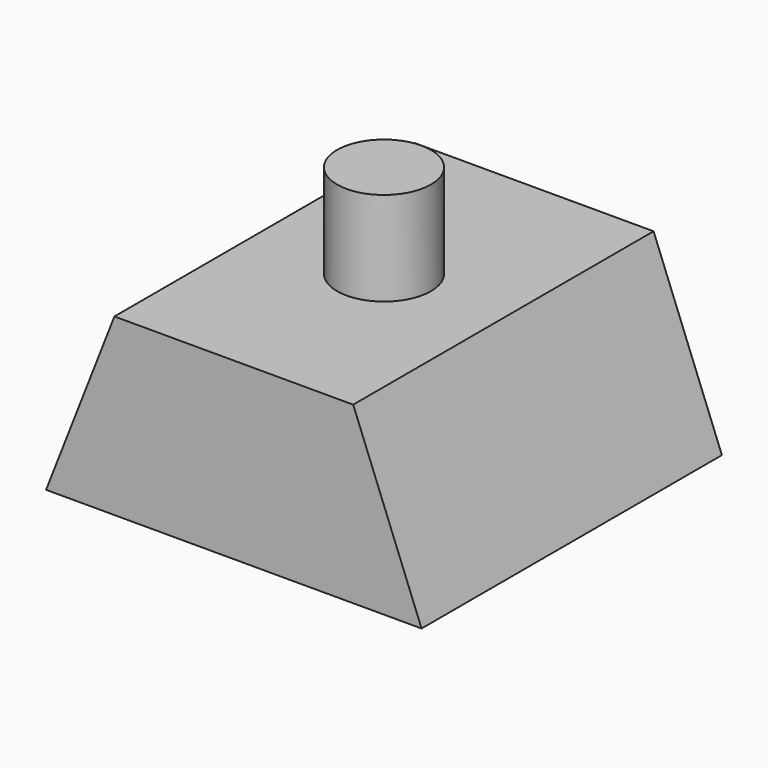
from build123d import *

# Parameters (mm, degrees)
F1_DEPTH = 20
F2_R     = 2.5
F3_DEPTH = 5


with BuildPart() as f1:
    # F0 (on Front) → F1 (new body)
    with BuildSketch(Plane.XZ):
        Polygon((6.36, 0), (0, 0), (-6.36, 0), (-10, -9.313989), (0, -9.313989), (10, -9.313989), align=None)
    extrude(amount=F1_DEPTH)

    # F2 (on face) → F3 (join)
    with BuildSketch(Plane.XY):
        with Locations((0, -10)):
            Circle(F2_R)
    extrude(amount=F3_DEPTH)


solid = f1.part
